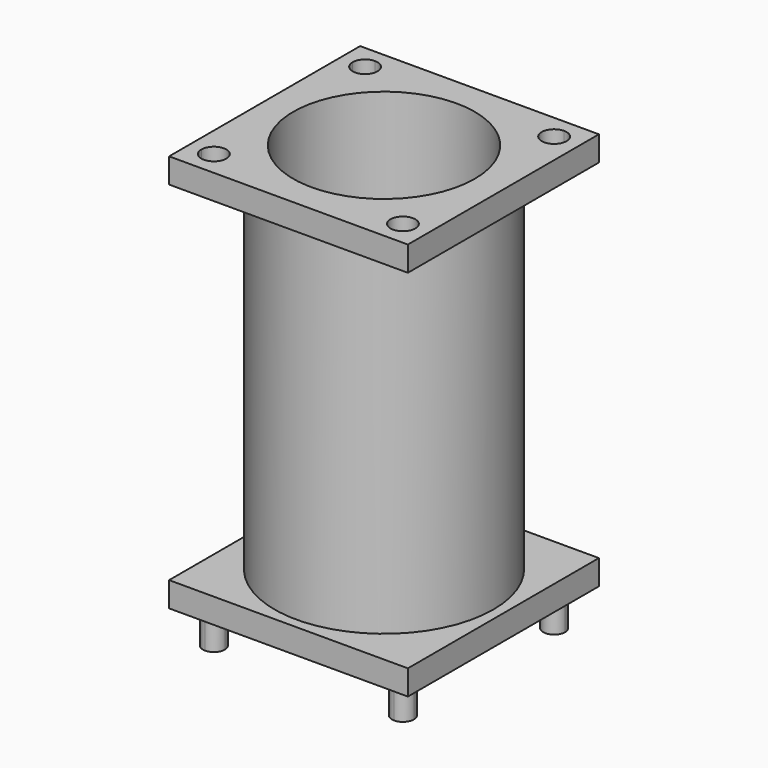
from build123d import *

# Parameters (mm, degrees)
F0_R     = 10.5
F0_R_2   = 9.125
F1_DEPTH = 40
F2_W     = 6
F2_H     = 35
F4_DEPTH = 3.5
F6_DEPTH = 25


with BuildPart() as f1:
    # F0 (on Top) → F1 (new body)
    with BuildSketch(Plane.XY):
        with BuildLine():
            Line((9.5, 10.6), (9.5, 12))
            Line((9.5, 12), (-9.5, 12))
            Line((-9.5, 12), (-9.5, 10.6))
            ThreePointArc((-9.5, 10.6), (-8.722183, 10.277817), (-8.4, 9.5))
            ThreePointArc((-8.4, 9.5), (-9.5, 8.4), (-10.6, 9.5))
            Line((-10.6, 9.5), (-12, 9.5))
            Line((-12, 9.5), (-12, -9.5))
            Line((-12, -9.5), (-10.6, -9.5))
            ThreePointArc((-10.6, -9.5), (-9.5, -8.4), (-8.4, -9.5))
            ThreePointArc((-8.4, -9.5), (-8.722183, -10.277817), (-9.5, -10.6))
            Line((-9.5, -10.6), (-9.5, -12))
            Line((-9.5, -12), (9.5, -12))
            Line((9.5, -12), (9.5, -10.6))
            ThreePointArc((9.5, -10.6), (8.722183, -8.722183), (10.6, -9.5))
            Line((10.6, -9.5), (12, -9.5))
            Line((12, -9.5), (12, 9.5))
            Line((12, 9.5), (10.6, 9.5))
            ThreePointArc((10.6, 9.5), (8.722183, 8.722183), (9.5, 10.6))
        make_face()
        Circle(F0_R, mode=Mode.SUBTRACT)
        Circle(F0_R)
        Circle(F0_R_2, mode=Mode.SUBTRACT)
        with BuildLine():
            Line((12, -12), (12, -9.5))
            Line((12, -9.5), (10.6, -9.5))
            ThreePointArc((10.6, -9.5), (10.277817, -10.277817), (9.5, -10.6))
            Line((9.5, -10.6), (9.5, -12))
            Line((9.5, -12), (12, -12))
        make_face()
        with BuildLine():
            Line((-10.6, -9.5), (-12, -9.5))
            Line((-12, -9.5), (-12, -12))
            Line((-12, -12), (-9.5, -12))
            Line((-9.5, -12), (-9.5, -10.6))
            ThreePointArc((-9.5, -10.6), (-10.277817, -10.277817), (-10.6, -9.5))
        make_face()
        with BuildLine():
            Line((-9.5, 10.6), (-9.5, 12))
            Line((-9.5, 12), (-12, 12))
            Line((-12, 12), (-12, 9.5))
            Line((-12, 9.5), (-10.6, 9.5))
            ThreePointArc((-10.6, 9.5), (-10.277817, 10.277817), (-9.5, 10.6))
        make_face()
        with BuildLine():
            Line((12, 9.5), (12, 12))
            Line((12, 12), (9.5, 12))
            Line((9.5, 12), (9.5, 10.6))
            ThreePointArc((9.5, 10.6), (10.277817, 10.277817), (10.6, 9.5))
            Line((10.6, 9.5), (12, 9.5))
        make_face()
        with BuildLine():
            Line((9.5, 9.5), (9.5, 10.6))
            ThreePointArc((9.5, 10.6), (8.722183, 8.722183), (10.6, 9.5))
            Line((10.6, 9.5), (9.5, 9.5))
        make_face()
        with BuildLine():
            ThreePointArc((10.6, 9.5), (10.277817, 10.277817), (9.5, 10.6))
            Line((9.5, 10.6), (9.5, 9.5))
            Line((9.5, 9.5), (10.6, 9.5))
        make_face()
        with BuildLine():
            Line((9.5, -9.5), (10.6, -9.5))
            ThreePointArc((10.6, -9.5), (8.722183, -8.722183), (9.5, -10.6))
            Line((9.5, -10.6), (9.5, -9.5))
        make_face()
        with BuildLine():
            ThreePointArc((9.5, -10.6), (10.277817, -10.277817), (10.6, -9.5))
            Line((10.6, -9.5), (9.5, -9.5))
            Line((9.5, -9.5), (9.5, -10.6))
        make_face()
        with BuildLine():
            Line((-9.5, -9.5), (-10.6, -9.5))
            ThreePointArc((-10.6, -9.5), (-10.277817, -10.277817), (-9.5, -10.6))
            Line((-9.5, -10.6), (-9.5, -9.5))
        make_face()
        with BuildLine():
            ThreePointArc((-8.4, -9.5), (-9.5, -8.4), (-10.6, -9.5))
            Line((-10.6, -9.5), (-9.5, -9.5))
            Line((-9.5, -9.5), (-9.5, -10.6))
            ThreePointArc((-9.5, -10.6), (-8.722183, -10.277817), (-8.4, -9.5))
        make_face()
        with BuildLine():
            ThreePointArc((-8.4, 9.5), (-8.722183, 10.277817), (-9.5, 10.6))
            Line((-9.5, 10.6), (-9.5, 9.5))
            Line((-9.5, 9.5), (-10.6, 9.5))
            ThreePointArc((-10.6, 9.5), (-9.5, 8.4), (-8.4, 9.5))
        make_face()
        with BuildLine():
            Line((-9.5, 9.5), (-9.5, 10.6))
            ThreePointArc((-9.5, 10.6), (-10.277817, 10.277817), (-10.6, 9.5))
            Line((-10.6, 9.5), (-9.5, 9.5))
        make_face()
    extrude(amount=F1_DEPTH)

    # F2 (on Front) → F3 (revolve, cut)
    with BuildSketch(Plane.XZ):
        with Locations((14, 20)):
            Rectangle(F2_W, F2_H)
    revolve(axis=Axis((0, 0, 16.744209), (0, 0, 1)), mode=Mode.SUBTRACT)

    # F0 (on Top) → F4 (join)
    with BuildSketch(Plane.XY):
        with BuildLine():
            Line((-9.5, 9.5), (-9.5, 10.6))
            ThreePointArc((-9.5, 10.6), (-10.277817, 10.277817), (-10.6, 9.5))
            Line((-10.6, 9.5), (-9.5, 9.5))
        make_face()
        with BuildLine():
            ThreePointArc((-8.4, 9.5), (-8.722183, 10.277817), (-9.5, 10.6))
            Line((-9.5, 10.6), (-9.5, 9.5))
            Line((-9.5, 9.5), (-10.6, 9.5))
            ThreePointArc((-10.6, 9.5), (-9.5, 8.4), (-8.4, 9.5))
        make_face()
        with BuildLine():
            Line((-9.5, -9.5), (-10.6, -9.5))
            ThreePointArc((-10.6, -9.5), (-10.277817, -10.277817), (-9.5, -10.6))
            Line((-9.5, -10.6), (-9.5, -9.5))
        make_face()
        with BuildLine():
            ThreePointArc((-8.4, -9.5), (-9.5, -8.4), (-10.6, -9.5))
            Line((-10.6, -9.5), (-9.5, -9.5))
            Line((-9.5, -9.5), (-9.5, -10.6))
            ThreePointArc((-9.5, -10.6), (-8.722183, -10.277817), (-8.4, -9.5))
        make_face()
        with BuildLine():
            Line((9.5, -9.5), (10.6, -9.5))
            ThreePointArc((10.6, -9.5), (8.722183, -8.722183), (9.5, -10.6))
            Line((9.5, -10.6), (9.5, -9.5))
        make_face()
        with BuildLine():
            ThreePointArc((9.5, -10.6), (10.277817, -10.277817), (10.6, -9.5))
            Line((10.6, -9.5), (9.5, -9.5))
            Line((9.5, -9.5), (9.5, -10.6))
        make_face()
        with BuildLine():
            Line((9.5, 9.5), (9.5, 10.6))
            ThreePointArc((9.5, 10.6), (8.722183, 8.722183), (10.6, 9.5))
            Line((10.6, 9.5), (9.5, 9.5))
        make_face()
        with BuildLine():
            ThreePointArc((10.6, 9.5), (10.277817, 10.277817), (9.5, 10.6))
            Line((9.5, 10.6), (9.5, 9.5))
            Line((9.5, 9.5), (10.6, 9.5))
        make_face()
    extrude(amount=-F4_DEPTH)

    # F5 (on face) → F6 (cut)
    with BuildSketch(Plane.XY.offset(40)):
        with BuildLine():
            Line((9.5, -9.5), (10.75, -9.5))
            ThreePointArc((10.75, -9.5), (8.616117, -8.616117), (9.5, -10.75))
            Line((9.5, -10.75), (9.5, -9.5))
        make_face()
        with BuildLine():
            ThreePointArc((9.5, -10.75), (10.383883, -10.383883), (10.75, -9.5))
            Line((10.75, -9.5), (9.5, -9.5))
            Line((9.5, -9.5), (9.5, -10.75))
        make_face()
        with BuildLine():
            Line((-9.5, 9.5), (-9.5, 10.75))
            ThreePointArc((-9.5, 10.75), (-10.383883, 10.383883), (-10.75, 9.5))
            Line((-10.75, 9.5), (-9.5, 9.5))
        make_face()
        with BuildLine():
            ThreePointArc((-8.25, -9.5), (-9.5, -8.25), (-10.75, -9.5))
            Line((-10.75, -9.5), (-9.5, -9.5))
            Line((-9.5, -9.5), (-9.5, -10.75))
            ThreePointArc((-9.5, -10.75), (-8.616117, -10.383883), (-8.25, -9.5))
        make_face()
        with BuildLine():
            Line((-9.5, -9.5), (-10.75, -9.5))
            ThreePointArc((-10.75, -9.5), (-10.383883, -10.383883), (-9.5, -10.75))
            Line((-9.5, -10.75), (-9.5, -9.5))
        make_face()
        with BuildLine():
            ThreePointArc((-8.25, 9.5), (-8.616117, 10.383883), (-9.5, 10.75))
            Line((-9.5, 10.75), (-9.5, 9.5))
            Line((-9.5, 9.5), (-10.75, 9.5))
            ThreePointArc((-10.75, 9.5), (-9.5, 8.25), (-8.25, 9.5))
        make_face()
        with BuildLine():
            Line((9.5, 9.5), (9.5, 10.75))
            ThreePointArc((9.5, 10.75), (8.616117, 8.616117), (10.75, 9.5))
            Line((10.75, 9.5), (9.5, 9.5))
        make_face()
        with BuildLine():
            ThreePointArc((10.75, 9.5), (10.383883, 10.383883), (9.5, 10.75))
            Line((9.5, 10.75), (9.5, 9.5))
            Line((9.5, 9.5), (10.75, 9.5))
        make_face()
    extrude(amount=-F6_DEPTH, mode=Mode.SUBTRACT)


solid = f1.part
